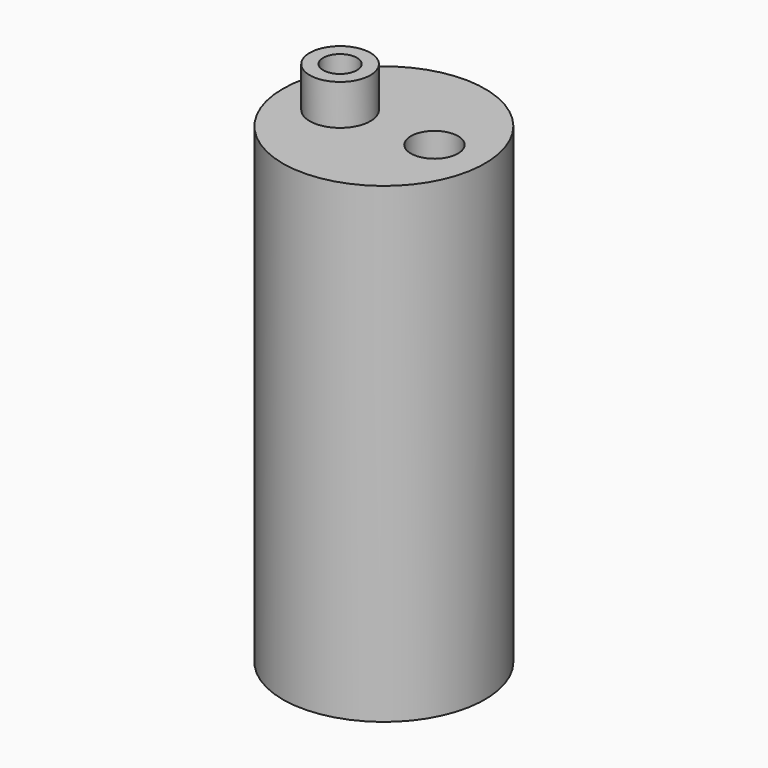
from build123d import *

# Parameters (mm, degrees)
F2_R     = 3.5
F2_R_2   = 2.5
F3_DEPTH = 25
F2_R_3   = 4.5
F4_DEPTH = 6


with BuildPart() as f1:
    # F0 (on Front) → F1 (revolve)
    with BuildSketch(Plane.XZ):
        with BuildLine():
            Line((0, 35), (-15, 35))
            Line((-15, 35), (-15, -35))
            Line((-15, -35), (0, -35))
            Line((0, -35), (0, -31))
            ThreePointArc((0, -31), (-7.778175, -27.778175), (-11, -20))
            Line((-11, -20), (-11, 20))
            ThreePointArc((-11, 20), (-7.778175, 27.778175), (0, 31))
            Line((0, 31), (0, 35))
        make_face()
    revolve(axis=Axis((0, 0, 0), (0, 0, -1)))

    # F2 (on face) → F3 (cut)
    with BuildSketch(Plane.XY.offset(35)):
        with Locations((7.5, 0)):
            Circle(F2_R)
        with Locations((-6.5, 0)):
            Circle(F2_R_2)
    extrude(amount=-F3_DEPTH, mode=Mode.SUBTRACT)

    # F2 (on face) → F4 (join)
    with BuildSketch(Plane.XY.offset(35)):
        with Locations((-6.5, 0)):
            Circle(F2_R_3)
        with Locations((-6.5, 0)):
            Circle(F2_R_2, mode=Mode.SUBTRACT)
    extrude(amount=F4_DEPTH)


solid = f1.part
